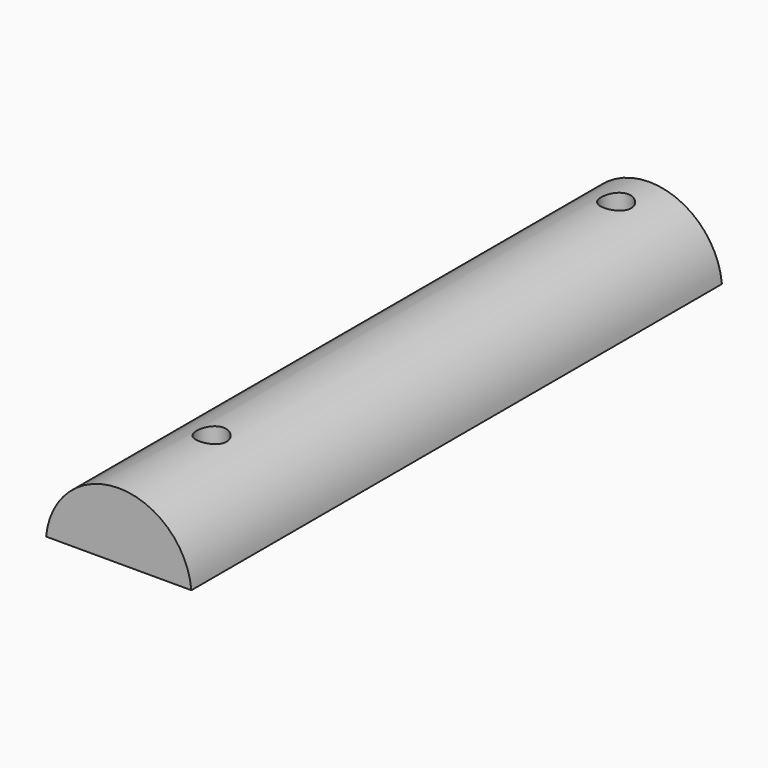
from build123d import *

# Parameters (mm, degrees)
F1_DEPTH = 100
F2_R     = 2.25
F3_DEPTH = 5
F4_DEPTH = 25


with BuildPart() as f1:
    # F0 (on Front) → F1 (new body)
    with BuildSketch(Plane.XZ):
        with BuildLine():
            ThreePointArc((10.9544511501, 1), (0, 11), (-10.9544511501, 1))
            Line((-10.9544511501, 1), (10.9544511501, 1))
        make_face()
    extrude(amount=F1_DEPTH)

    # F2 (on face) → F3 (cut)
    with BuildSketch(Plane(origin=(0, 0, 1), x_dir=(1, 0, 0), z_dir=(0, 0, -1))):
        Polygon((-2.0784609691, 2.65), (2.0784609691, 2.65), (4.1569219382, 6.25), (2.0784609691, 9.85), (-2.0784609691, 9.85), (-4.1569219382, 6.25), align=None)
        with Locations((0, 6.25)):
            Circle(F2_R, mode=Mode.SUBTRACT)
        Polygon((-2.0784609691, 78.9), (2.0784609691, 78.9), (4.1569219382, 82.5), (2.0784609691, 86.1), (-2.0784609691, 86.1), (-4.1569219382, 82.5), align=None)
        with Locations((0, 82.5)):
            Circle(F2_R, mode=Mode.SUBTRACT)
    extrude(amount=-F3_DEPTH, mode=Mode.SUBTRACT)

    # F4 (cut): faces of the model
    f4_faces = [f1.faces().sort_by_distance(p)[0] for p in [
        (0, -82.5, 1),
        (0, -6.25, 1),
    ]]
    extrude(f4_faces, amount=-F4_DEPTH, mode=Mode.SUBTRACT)


solid = f1.part
